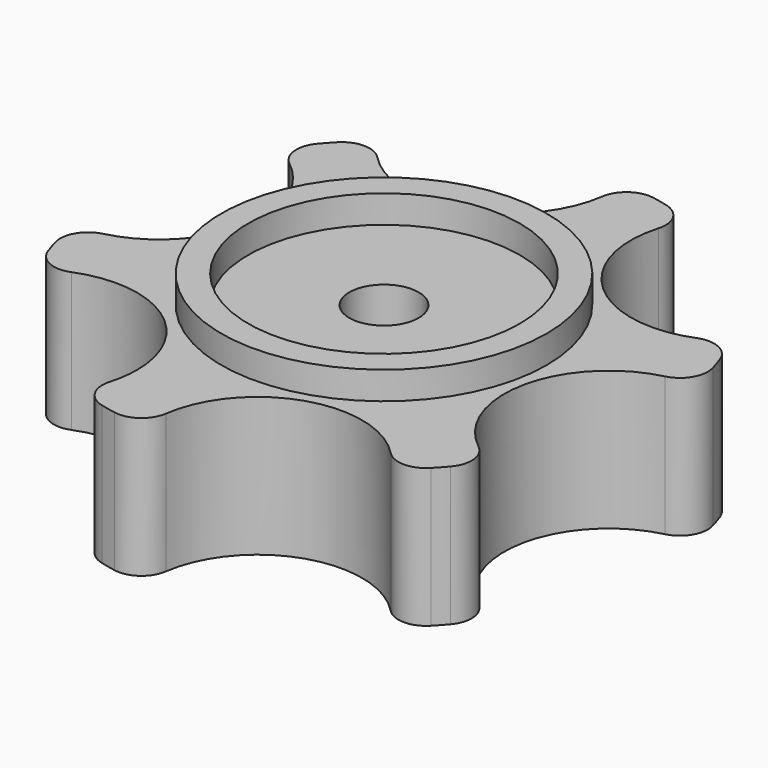
from build123d import *

# Parameters (mm, degrees)
F0_R     = 14.8728461467
F1_DEPTH = 12.7
F2_R     = 2.54
F0_R_2   = 12.4153453857
F0_R_3   = 3.175
F3_DEPTH = 12.7
F4_DEPTH = 15.24


with BuildPart() as f1:
    # F0 (on Top) → F1 (new body)
    with BuildSketch(Plane.XY):
        with BuildLine():
            ThreePointArc((21.0967877354, -14.1451598523), (15.4923273366, -3.3399893418), (25.0509920661, 4.1961644989))
            ThreePointArc((25.0509920661, 4.1961644989), (24.1794993656, 7.778933759), (22.7984616404, 11.197774191))
            ThreePointArc((22.7984616404, 11.197774191), (10.6386792866, 11.7467543663), (8.8915109785, 23.7928777688))
            ThreePointArc((8.8915109785, 23.7928777688), (5.3529954332, 24.8295275809), (1.7016739049, 25.3429340433))
            ThreePointArc((1.7016739049, 25.3429340433), (1.7549973478, 24.7623025716), (1.7727939343, 24.1794993656))
            ThreePointArc((1.7727939343, 24.1794993656), (-5.4138971923, 14.9251974489), (-16.1594810876, 19.5967132698))
            ThreePointArc((-16.1594810876, 19.5967132698), (-18.8265039325, 17.0505938219), (-21.0967877354, 14.1451598523))
            ThreePointArc((-21.0967877354, 14.1451598523), (-16.8643026475, 10.6246833684), (-15.2777998876, 5.3529954332))
            ThreePointArc((-15.2777998876, 5.3529954332), (-18.154194875, -1.4789468377), (-25.0509920661, -4.1961644989))
            ThreePointArc((-25.0509920661, -4.1961644989), (-24.1794993656, -7.778933759), (-22.7984616404, -11.197774191))
            ThreePointArc((-22.7984616404, -11.197774191), (-12.7883506503, -10.278475793), (-7.4988661286, -18.8265039325))
            ThreePointArc((-7.4988661286, -18.8265039325), (-7.8536149844, -21.4054731432), (-8.8915109785, -23.7928777688))
            ThreePointArc((-8.8915109785, -23.7928777688), (-5.3529954332, -24.8295275809), (-1.7016739049, -25.3429340433))
            ThreePointArc((-1.7016739049, -25.3429340433), (4.8536480499, -15.0867437081), (16.1594810876, -19.5967132698))
            ThreePointArc((16.1594810876, -19.5967132698), (18.8265039325, -17.0505938219), (21.0967877354, -14.1451598523))
        make_face()
        Circle(F0_R, mode=Mode.SUBTRACT)
    extrude(amount=F1_DEPTH)

    # F2
    f2_edges = [f1.edges().sort_by_distance(p)[0] for p in [
        (1.701674, 25.342934, 6.35),
        (8.891511, 23.792878, 6.35),
        (-16.159481, 19.596713, 6.35),
        (-21.096788, 14.14516, 6.35),
        (-25.050992, -4.196164, 6.35),
        (25.050992, 4.196164, 6.35),
        (22.798462, 11.197774, 6.35),
        (21.096788, -14.14516, 6.35),
        (16.159481, -19.596713, 6.35),
        (-1.701674, -25.342934, 6.35),
        (-8.891511, -23.792878, 6.35),
        (-22.798462, -11.197774, 6.35),
    ]]
    fillet(f2_edges, radius=F2_R)



with BuildPart() as f3:
    # F0 (on Top) → F3 (new body)
    with BuildSketch(Plane.XY):
        Circle(F0_R_2)
        Circle(F0_R_3, mode=Mode.SUBTRACT)
    extrude(amount=F3_DEPTH)


with BuildPart() as f1_1:
    add(f1.part)

    add(f3.part)  # F4 merges F3
    # F0 (on Top) → F4 (join)
    with BuildSketch(Plane.XY):
        Circle(F0_R)
        Circle(F0_R_2, mode=Mode.SUBTRACT)
    extrude(amount=F4_DEPTH)


solid = f1_1.part
